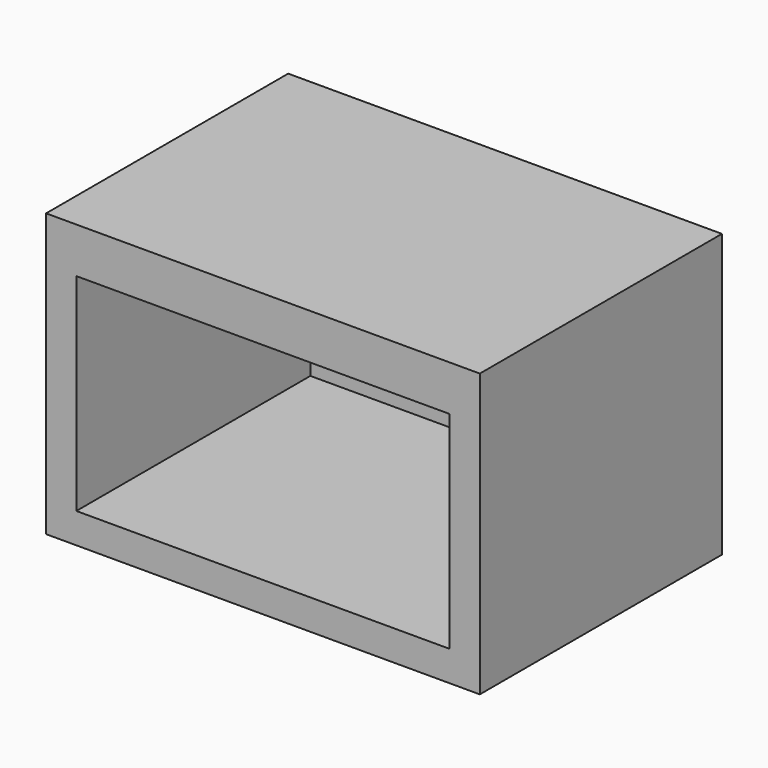
from build123d import *

# Parameters (mm, degrees)
F0_W     = 381
F0_H     = 355.6
F1_DEPTH = 546.1
F2_W     = 469.9
F2_H     = 260.35
F3_DEPTH = 368.3


with BuildPart() as f1:
    # F0 (on Right) → F1 (new body)
    with BuildSketch(Plane.YZ):
        with Locations((-190.5, 177.8)):
            Rectangle(F0_W, F0_H)
    extrude(amount=F1_DEPTH)

    # F2 (on face) → F3 (cut)
    with BuildSketch(Plane.XZ.offset(381)):
        with Locations((273.05, 168.275)):
            Rectangle(F2_W, F2_H)
    extrude(amount=-F3_DEPTH, mode=Mode.SUBTRACT)


solid = f1.part
